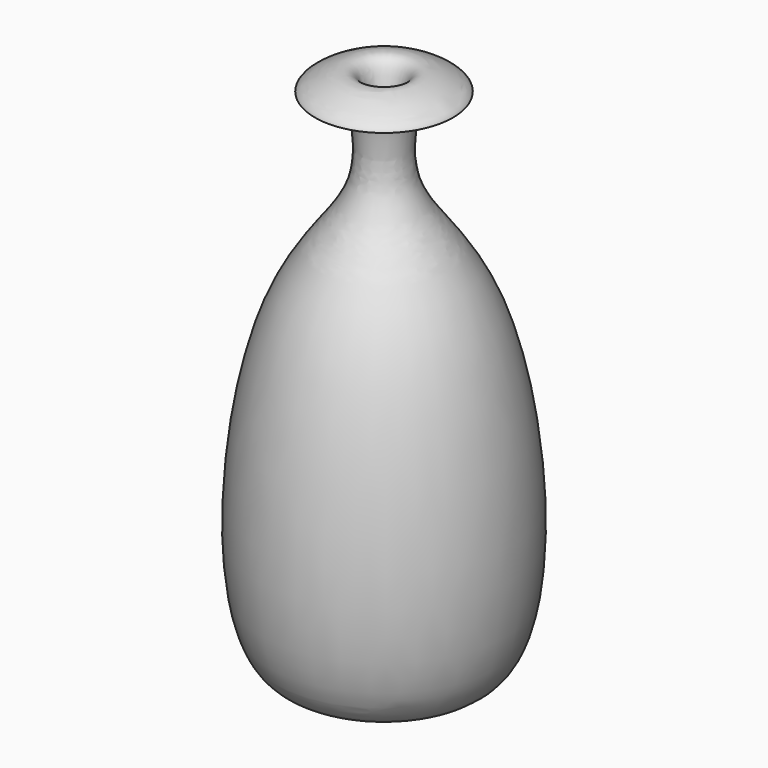
from build123d import *


with BuildPart() as f1:
    # F0 (on Front) → F1 (revolve)
    with BuildSketch(Plane.XZ):
        with BuildLine():
            add(Edge.make_bspline(
                [(0, 0), (-3.8762788809, -0.8334350814), (-18.396444161, -6.8769836899), (-15.5319871862, 41.1188998006), (-2.5417838566, 50.7110777786), (-3.1094743413, 59.338444472), (-3.8573929391, 63.4617881531), (-11.2909025502, 61.8090345674), (-3.9477007379, 66.2093742232), (-1.7218793141, 63.6580044454), (-1.6041254712, 56.327924688), (-3.6727125214, 48.894073062), (-15.8016283182, 37.9422260024), (-10.675219647, -1.8478062581), (-6.1564473807, -0.8334350814), (0, 0.6378922844)],
                knots=[0, 0, 0, 0, 0.082709566, 0.2293136942, 0.3249072824, 0.3888464052, 0.4322740694, 0.4786789849, 0.5311327074, 0.5692321637, 0.6316286451, 0.6954743056, 0.7893696892, 0.9281814094, 1, 1, 1, 1], degree=3))
            Line((0, 0), (0, 0.6378922844))
        make_face()
    revolve(axis=Axis((0, 0, 41.5602177382), (0, 0, 1)))


solid = f1.part
